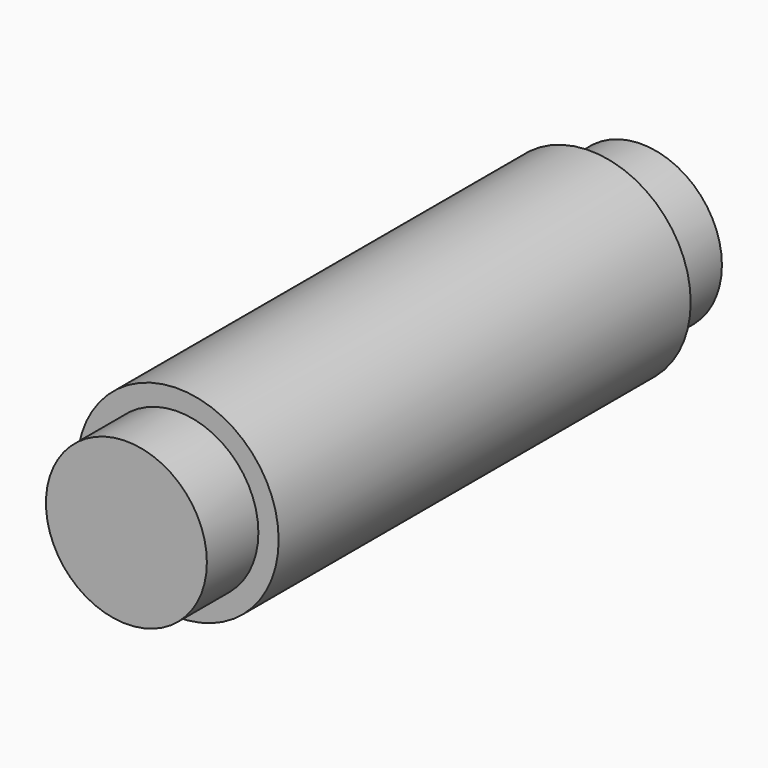
from build123d import *

# Parameters (mm, degrees)
F0_R     = 3.9751
F1_DEPTH = 25.4
F2_R     = 3.9751
F2_R_2   = 3.175
F3_DEPTH = 2.54
F4_R     = 3.9751
F4_R_2   = 3.175
F5_DEPTH = 2.54


with BuildPart() as f1:
    # F0 (on Front) → F1 (new body)
    with BuildSketch(Plane.XZ):
        Circle(F0_R)
    extrude(amount=F1_DEPTH)

    # F2 (on face) → F3 (cut)
    with BuildSketch(Plane.XZ.offset(25.4)):
        Circle(F2_R)
        Circle(F2_R_2, mode=Mode.SUBTRACT)
    extrude(amount=-F3_DEPTH, mode=Mode.SUBTRACT)

    # F4 (on Front) → F5 (cut)
    with BuildSketch(Plane.XZ):
        Circle(F4_R)
        Circle(F4_R_2, mode=Mode.SUBTRACT)
    extrude(amount=F5_DEPTH, mode=Mode.SUBTRACT)


solid = f1.part
